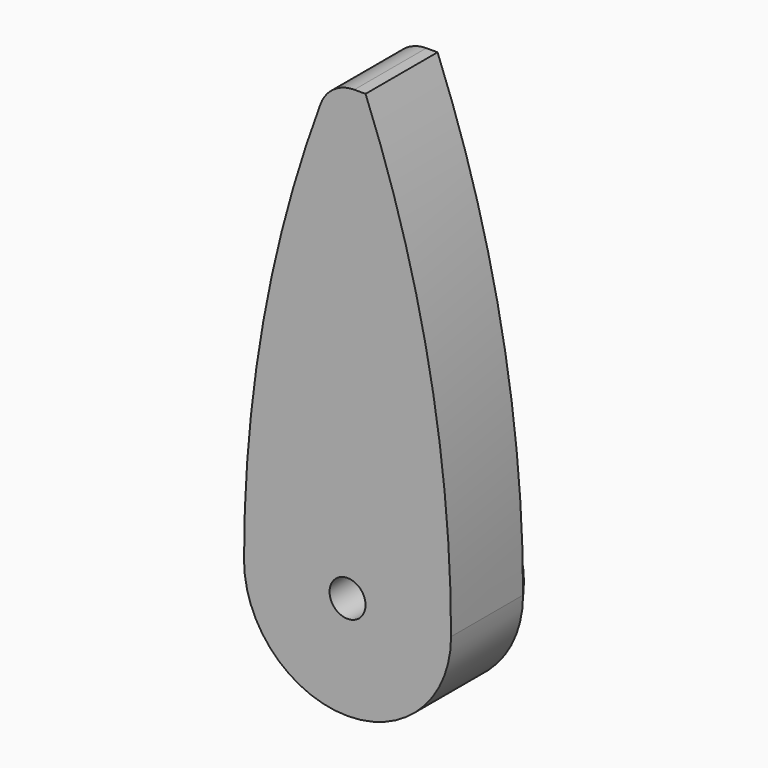
from build123d import *

# Parameters (mm, degrees)
F0_R     = 5
F1_DEPTH = 1
F3_DEPTH = 5
F4_R     = 2.25
F5_DEPTH = 3.5
F6_R     = 1
F7_DEPTH = 25
F8_R     = 2


with BuildPart() as f1:
    # F0 (on Front) → F1 (new body)
    with BuildSketch(Plane.XZ):
        Circle(F0_R)
    extrude(amount=F1_DEPTH)

    # F2 (on face) → F3 (join)
    with BuildSketch(Plane.XZ.offset(1)):
        with BuildLine():
            ThreePointArc((-1, 25), (-4.551972, 12.723625), (-5.75, 0))
            ThreePointArc((-5.75, 0), (0, -5.75), (5.75, 0))
            ThreePointArc((5.75, 0), (4.551972, 12.723625), (1, 25))
            Line((1, 25), (-1, 25))
        make_face()
    extrude(amount=F3_DEPTH)

    # F4 (on face) → F5 (cut)
    with BuildSketch(Plane(origin=(0, 0, 0), x_dir=(-1, 0, 0), z_dir=(0, 1, 0))):
        Circle(F4_R)
    extrude(amount=-F5_DEPTH, mode=Mode.SUBTRACT)

    # F6 (on face) → F7 (cut)
    with BuildSketch(Plane.XZ.offset(6)):
        Circle(F6_R)
    extrude(amount=-F7_DEPTH, mode=Mode.SUBTRACT)

    # F8
    f8_edges = [f1.edges().sort_by_distance(p)[0] for p in [
        (-1, -3.5, 25),
    ]]
    fillet(f8_edges, radius=F8_R)


solid = f1.part
